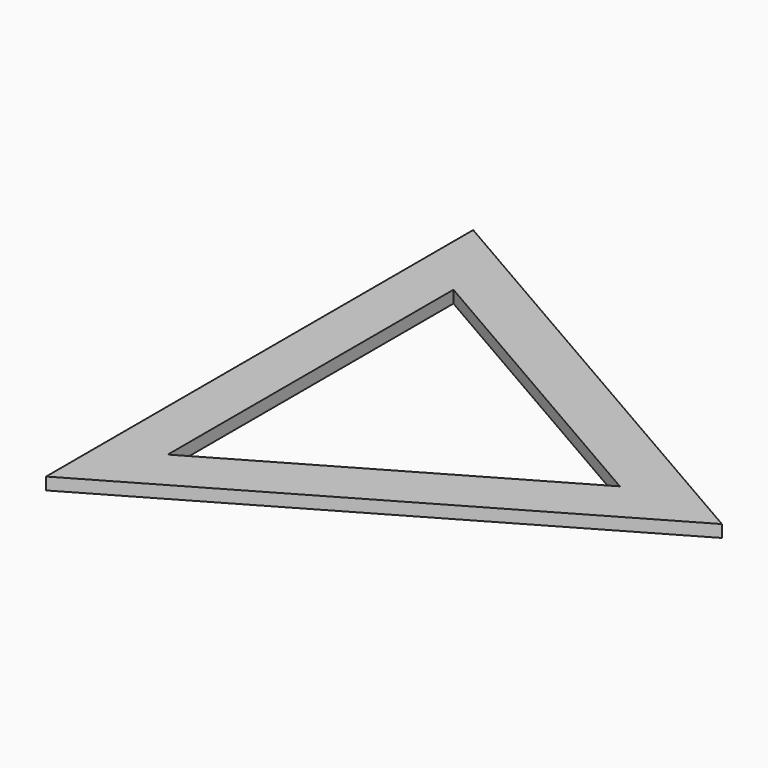
from build123d import *

# Parameters (mm, degrees)
PRISM003_DEPTH = 15
PRISM001_DEPTH = 3
PRISM_DEPTH    = 3
PRISM002_DEPTH = 6


with BuildPart() as prism003:
    # Prism003 → Prism003 (new body)
    with BuildSketch(Plane.XY):
        Polygon((101, 0), (-50.5, 87.468566), (-50.5, -87.468566), align=None)
    extrude(amount=PRISM003_DEPTH)


with BuildPart() as prism001:
    # Prism001 → Prism001 (new body)
    with BuildSketch(Plane.XY):
        Polygon((116, 0), (-58, 100.458947), (-58, -100.458947), align=None)
    extrude(amount=PRISM001_DEPTH)


with BuildPart() as cut:
    # Prism → Prism (new body)
    with BuildSketch(Plane.XY):
        Polygon((136, 0), (-68, 117.779455), (-68, -117.779455), align=None)
    extrude(amount=PRISM_DEPTH)

    # Cut: cut Prism001
    add(prism001.part, mode=Mode.SUBTRACT)


with BuildPart() as cut002:
    # Prism002 → Prism002 (new body)
    with BuildSketch(Plane.XY):
        Polygon((151, 0), (-75.5, 130.769836), (-75.5, -130.769836), align=None)
    extrude(amount=PRISM002_DEPTH)

    # Cut001: cut Cut
    add(cut.part, mode=Mode.SUBTRACT)

    # Cut002: cut Prism003
    add(prism003.part, mode=Mode.SUBTRACT)


solid = cut002.part
